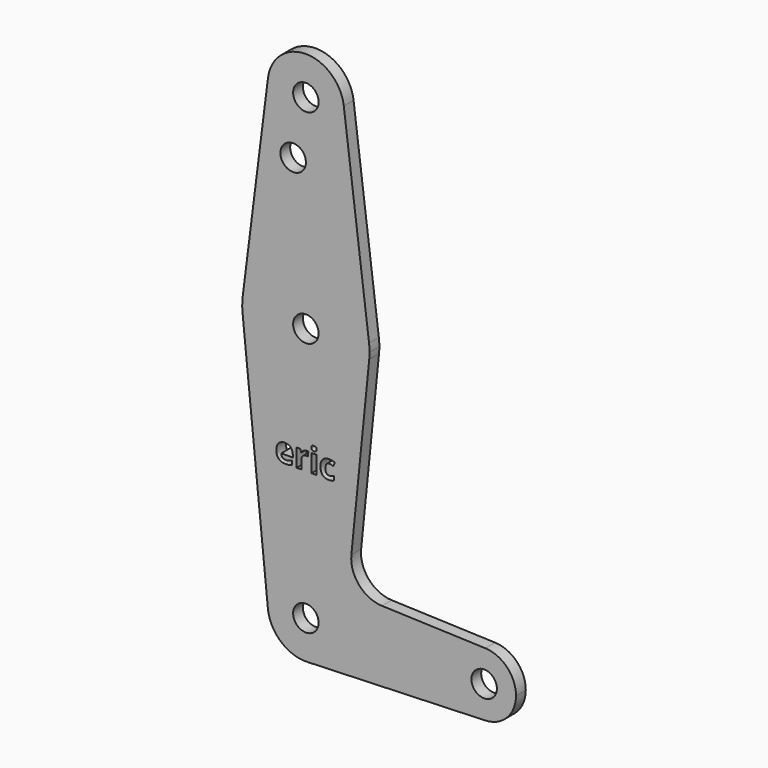
from build123d import *

# Parameters (mm, degrees)
F0_R     = 3.175
F0_W     = 1.2134287943
F0_H     = 4.4488144882
F1_DEPTH = 3.048


with BuildPart() as f1:
    # F0 (on Front) → F1 (new body)
    with BuildSketch(Plane.XZ):
        with BuildLine():
            ThreePointArc((44.7334821429, -7.9324362036), (50.1620069047, -5.5115227815), (52.3875, 0))
            ThreePointArc((52.3875, 0), (50.1620069047, 5.5115227815), (44.7334821429, 7.9324362036))
            ThreePointArc((44.7334821429, 7.9324362036), (36.5125, 0), (44.7334821429, -7.9324362036))
        make_face()
        with Locations((44.45, 0)):
            Circle(F0_R, mode=Mode.SUBTRACT)
        with BuildLine():
            ThreePointArc((44.7334821429, -7.9324362036), (36.5125, 0), (44.7334821429, 7.9324362036))
            Line((44.7334821429, 7.9324362036), (18.9676000005, 8.8532337108))
            ThreePointArc((18.9676000005, 8.8532337108), (13.2611998974, 11.5713591498), (11.3411865923, 17.5933818124))
            Line((11.3411865923, 17.5933818124), (15.7954255641, 61.9125))
            ThreePointArc((15.7954255641, 61.9125), (0, 47.625), (-15.7954255641, 61.9125))
            Line((-15.7954255641, 61.9125), (-9.4772553384, -0.9525))
            ThreePointArc((-9.4772553384, -0.9525), (-0.4768479324, 9.5130563464), (9.525, 0))
            ThreePointArc((9.525, 0), (6.8544082857, -6.6138273378), (0.3401785714, -9.5189234444))
            Line((0.3401785714, -9.5189234444), (44.7334821429, -7.9324362036))
        make_face()
        with BuildLine():
            add(Edge.make_bspline(
                [(-4.1992530573, 32.2494809549), (-4.5608624776, 32.1718113259), (-5.0829042464, 32.1718113259)],
                knots=[0, 0, 0, 1, 1, 1], degree=2))
            add(Edge.make_bspline(
                [(-5.0829042464, 32.1718113259), (-6.156273054, 32.1718113259), (-6.7610775422, 32.7651563606)],
                knots=[0, 0, 0, 1, 1, 1], degree=2))
            add(Edge.make_bspline(
                [(-6.7610775422, 32.7651563606), (-7.3658820304, 33.3585013954), (-7.3658820304, 34.444602929)],
                knots=[0, 0, 0, 1, 1, 1], degree=2))
            add(Edge.make_bspline(
                [(-7.3658820304, 34.444602929), (-7.3658820304, 35.5625362778), (-6.806915356, 36.1730704928)],
                knots=[0, 0, 0, 1, 1, 1], degree=2))
            add(Edge.make_bspline(
                [(-6.806915356, 36.1730704928), (-6.2479486816, 36.7836047077), (-5.2611624114, 36.7836047077)],
                knots=[0, 0, 0, 1, 1, 1], degree=2))
            add(Edge.make_bspline(
                [(-5.2611624114, 36.7836047077), (-4.3189406823, 36.7836047077), (-3.793715732, 36.246920304)],
                knots=[0, 0, 0, 1, 1, 1], degree=2))
            add(Edge.make_bspline(
                [(-3.793715732, 36.246920304), (-3.2684907817, 35.7102359002), (-3.2684907817, 34.7629210807)],
                knots=[0, 0, 0, 1, 1, 1], degree=2))
            Line((-3.2684907817, 34.7629210807), (-3.2684907817, 34.1733958638))
            Line((-3.2684907817, 34.1733958638), (-6.1371739649, 34.1733958638))
            add(Edge.make_bspline(
                [(-6.1371739649, 34.1733958638), (-6.1168016031, 33.6564471854), (-5.8303152666, 33.3661410311)],
                knots=[0, 0, 0, 1, 1, 1], degree=2))
            add(Edge.make_bspline(
                [(-5.8303152666, 33.3661410311), (-5.5438289301, 33.0758348767), (-5.0268802517, 33.0758348767)],
                knots=[0, 0, 0, 1, 1, 1], degree=2))
            add(Edge.make_bspline(
                [(-5.0268802517, 33.0758348767), (-4.624526108, 33.0758348767), (-4.2667365054, 33.1592342324)],
                knots=[0, 0, 0, 1, 1, 1], degree=2))
            add(Edge.make_bspline(
                [(-4.2667365054, 33.1592342324), (-3.9089469029, 33.2426335882), (-3.5193254852, 33.4259848436)],
                knots=[0, 0, 0, 1, 1, 1], degree=2))
            Line((-3.5193254852, 33.4259848436), (-3.5193254852, 32.4863096597))
            add(Edge.make_bspline(
                [(-3.5193254852, 32.4863096597), (-3.8376436369, 32.3271505839), (-4.1992530573, 32.2494809549)],
                knots=[0, 0, 0, 1, 1, 1], degree=2))
        make_face(mode=Mode.SUBTRACT)
        with BuildLine():
            add(Edge.make_bspline(
                [(-0.5646964011, 36.5550522748), (-0.2126365253, 36.7836047077), (0.2011770719, 36.7836047077)],
                knots=[0, 0, 0, 1, 1, 1], degree=2))
            add(Edge.make_bspline(
                [(0.2011770719, 36.7836047077), (0.4481919576, 36.7836047077), (0.6111708513, 36.7479530748)],
                knots=[0, 0, 0, 1, 1, 1], degree=2))
            Line((0.6111708513, 36.7479530748), (0.5194952236, 35.6109206369))
            add(Edge.make_bspline(
                [(0.5194952236, 35.6109206369), (0.3717956012, 35.6503920877), (0.1617056211, 35.6503920877)],
                knots=[0, 0, 0, 1, 1, 1], degree=2))
            add(Edge.make_bspline(
                [(0.1617056211, 35.6503920877), (-0.4189066876, 35.6503920877), (-0.7435912024, 35.3518096614)],
                knots=[0, 0, 0, 1, 1, 1], degree=2))
            add(Edge.make_bspline(
                [(-0.7435912024, 35.3518096614), (-1.0682757171, 35.0532272351), (-1.0682757171, 34.515906195)],
                knots=[0, 0, 0, 1, 1, 1], degree=2))
            Line((-1.0682757171, 34.515906195), (-1.0682757171, 32.2520275001))
            Line((-1.0682757171, 32.2520275001), (-2.2817045114, 32.2520275001))
            Line((-2.2817045114, 32.2520275001), (-2.2817045114, 36.7008419883))
            Line((-2.2817045114, 36.7008419883), (-1.3624016893, 36.7008419883))
            Line((-1.3624016893, 36.7008419883), (-1.1828702517, 35.9521576955))
            Line((-1.1828702517, 35.9521576955), (-1.1242997118, 35.9521576955))
            add(Edge.make_bspline(
                [(-1.1242997118, 35.9521576955), (-0.9167562769, 36.3264998419), (-0.5646964011, 36.5550522748)],
                knots=[0, 0, 0, 1, 1, 1], degree=2))
        make_face(mode=Mode.SUBTRACT)
        with Locations((2.0251400811, 34.4764347442)):
            Rectangle(F0_W, F0_H, mode=Mode.SUBTRACT)
        with BuildLine():
            add(Edge.make_bspline(
                [(6.4694981152, 32.2437512281), (6.16900578, 32.1718113259), (5.7119009142, 32.1718113259)],
                knots=[0, 0, 0, 1, 1, 1], degree=2))
            add(Edge.make_bspline(
                [(5.7119009142, 32.1718113259), (3.6351932925, 32.1718113259), (3.6351932925, 34.4522425647)],
                knots=[0, 0, 0, 1, 1, 1], degree=2))
            add(Edge.make_bspline(
                [(3.6351932925, 34.4522425647), (3.6351932925, 35.5867284573), (4.1998896936, 36.1851665825)],
                knots=[0, 0, 0, 1, 1, 1], degree=2))
            add(Edge.make_bspline(
                [(4.1998896936, 36.1851665825), (4.7645860947, 36.7836047077), (5.8188558132, 36.7836047077)],
                knots=[0, 0, 0, 1, 1, 1], degree=2))
            add(Edge.make_bspline(
                [(5.8188558132, 36.7836047077), (6.5904590129, 36.7836047077), (7.2041764094, 36.4818390999)],
                knots=[0, 0, 0, 1, 1, 1], degree=2))
            Line((7.2041764094, 36.4818390999), (6.8451135342, 35.5421639161))
            add(Edge.make_bspline(
                [(6.8451135342, 35.5421639161), (6.5586271977, 35.6580317233), (6.3122489483, 35.7318815345)],
                knots=[0, 0, 0, 1, 1, 1], degree=2))
            add(Edge.make_bspline(
                [(6.3122489483, 35.7318815345), (6.0658706989, 35.8057313457), (5.8188558132, 35.8057313457)],
                knots=[0, 0, 0, 1, 1, 1], degree=2))
            add(Edge.make_bspline(
                [(5.8188558132, 35.8057313457), (4.8715409937, 35.8057313457), (4.8715409937, 34.4598822003)],
                knots=[0, 0, 0, 1, 1, 1], degree=2))
            add(Edge.make_bspline(
                [(4.8715409937, 34.4598822003), (4.8715409937, 33.1547777783), (5.8188558132, 33.1547777783)],
                knots=[0, 0, 0, 1, 1, 1], degree=2))
            add(Edge.make_bspline(
                [(5.8188558132, 33.1547777783), (6.16900578, 33.1547777783), (6.4675882063, 33.2483633149)],
                knots=[0, 0, 0, 1, 1, 1], degree=2))
            add(Edge.make_bspline(
                [(6.4675882063, 33.2483633149), (6.7661706326, 33.3419488515), (7.0641164226, 33.5418526508)],
                knots=[0, 0, 0, 1, 1, 1], degree=2))
            Line((7.0641164226, 33.5418526508), (7.0641164226, 32.5028622036))
            add(Edge.make_bspline(
                [(7.0641164226, 32.5028622036), (6.7699904504, 32.3156911304), (6.4694981152, 32.2437512281)],
                knots=[0, 0, 0, 1, 1, 1], degree=2))
        make_face(mode=Mode.SUBTRACT)
        with BuildLine():
            add(Edge.make_bspline(
                [(2.0270499901, 37.2534422997), (1.3662215071, 37.2534422997), (1.3662215071, 37.8506071523)],
                knots=[0, 0, 0, 1, 1, 1], degree=2))
            add(Edge.make_bspline(
                [(1.3662215071, 37.8506071523), (1.3662215071, 38.443952187), (2.0270499901, 38.443952187)],
                knots=[0, 0, 0, 1, 1, 1], degree=2))
            add(Edge.make_bspline(
                [(2.0270499901, 38.443952187), (2.687878473, 38.443952187), (2.687878473, 37.8506071523)],
                knots=[0, 0, 0, 1, 1, 1], degree=2))
            add(Edge.make_bspline(
                [(2.687878473, 37.8506071523), (2.687878473, 37.5679406335), (2.5229896704, 37.4106914666)],
                knots=[0, 0, 0, 1, 1, 1], degree=2))
            add(Edge.make_bspline(
                [(2.5229896704, 37.4106914666), (2.3581008678, 37.2534422997), (2.0270499901, 37.2534422997)],
                knots=[0, 0, 0, 1, 1, 1], degree=2))
        make_face(mode=Mode.SUBTRACT)
        with BuildLine():
            ThreePointArc((-9.4772553384, -0.9525), (-6.2623833816, -7.1769199091), (0.3401785714, -9.5189234444))
            ThreePointArc((0.3401785714, -9.5189234444), (6.8544082857, -6.6138273378), (9.525, 0))
            ThreePointArc((9.525, 0), (-0.4768479324, 9.5130563464), (-9.4772553384, -0.9525))
        make_face()
        Circle(F0_R, mode=Mode.SUBTRACT)
        with BuildLine():
            ThreePointArc((-15.7954255641, 61.9125), (0, 47.625), (15.7954255641, 61.9125))
            ThreePointArc((15.7954255641, 61.9125), (15.8550939106, 62.7052534459), (15.875, 63.5))
            ThreePointArc((15.875, 63.5), (15.8438414904, 64.4941387366), (15.7504882737, 65.484375))
            ThreePointArc((15.7504882737, 65.484375), (0, 79.375), (-15.7504882737, 65.484375))
            ThreePointArc((-15.7504882737, 65.484375), (-15.8737438155, 63.6997054867), (-15.7954255641, 61.9125))
        make_face()
        with Locations((0, 63.5)):
            Circle(F0_R, mode=Mode.SUBTRACT)
        with BuildLine():
            Line((-9.4502929642, 115.490625), (-15.7504882737, 65.484375))
            ThreePointArc((-15.7504882737, 65.484375), (0, 79.375), (15.7504882737, 65.484375))
            Line((15.7504882737, 65.484375), (9.4502929642, 115.490625))
            ThreePointArc((9.4502929642, 115.490625), (9.5063048942, 114.896483242), (9.525, 114.3))
            ThreePointArc((9.525, 114.3), (-0.596483242, 104.7936951058), (-9.4502929642, 115.490625))
        make_face()
        with Locations((-3.175, 100.0252)):
            Circle(F0_R, mode=Mode.SUBTRACT)
        with BuildLine():
            ThreePointArc((9.4502929642, 115.490625), (0, 123.825), (-9.4502929642, 115.490625))
            ThreePointArc((-9.4502929642, 115.490625), (-0.596483242, 104.7936951058), (9.525, 114.3))
            ThreePointArc((9.525, 114.3), (9.5063048942, 114.896483242), (9.4502929642, 115.490625))
        make_face()
        with Locations((0, 114.3)):
            Circle(F0_R, mode=Mode.SUBTRACT)
    extrude(amount=F1_DEPTH)


solid = f1.part
